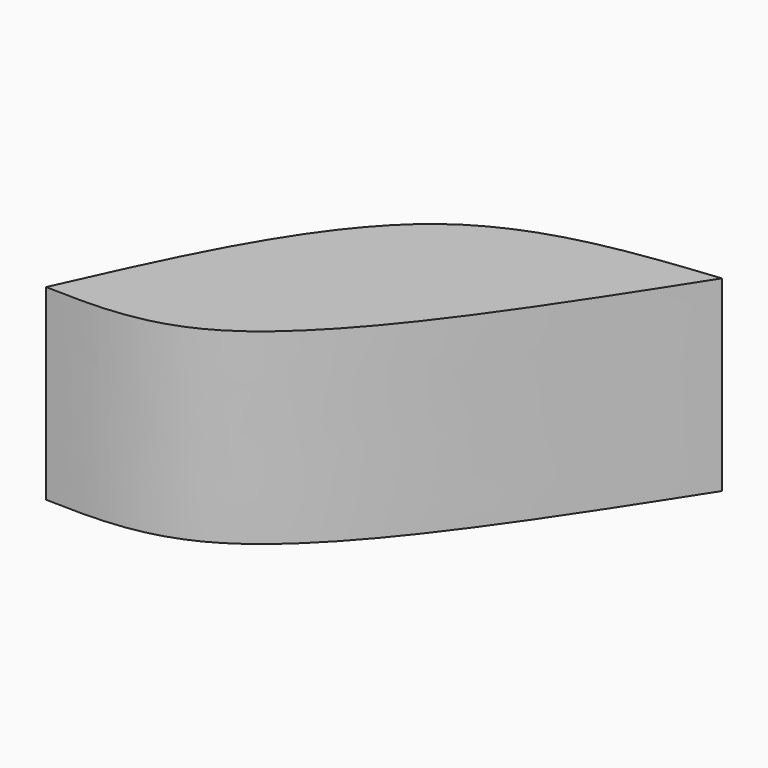
from build123d import *

# Parameters (mm, degrees)
F1_DEPTH = 25


with BuildPart() as f1:
    # F0 (on Top) → F1 (new body)
    with BuildSketch(Plane.XY):
        with BuildLine():
            add(Edge.make_bspline(
                [(0, 0), (6.6301234124, 14.6696750051), (18.9208017042, 41.8637775758), (42.7962936895, 44.3902597309), (53.7923127413, 45.5538481474)],
                knots=[0, 0, 0, 0, 0.5394432476, 1, 1, 1, 1], degree=3))
            add(Edge.make_bspline(
                [(0, 0), (6.6623794826, -0.200075793), (24.1316930295, -0.7246911756), (42.4562837908, 27.8665959372), (53.7923127413, 45.5538481474)],
                knots=[0, 0, 0, 0, 0.3813761465, 1, 1, 1, 1], degree=3))
        make_face()
    extrude(amount=F1_DEPTH)


solid = f1.part
